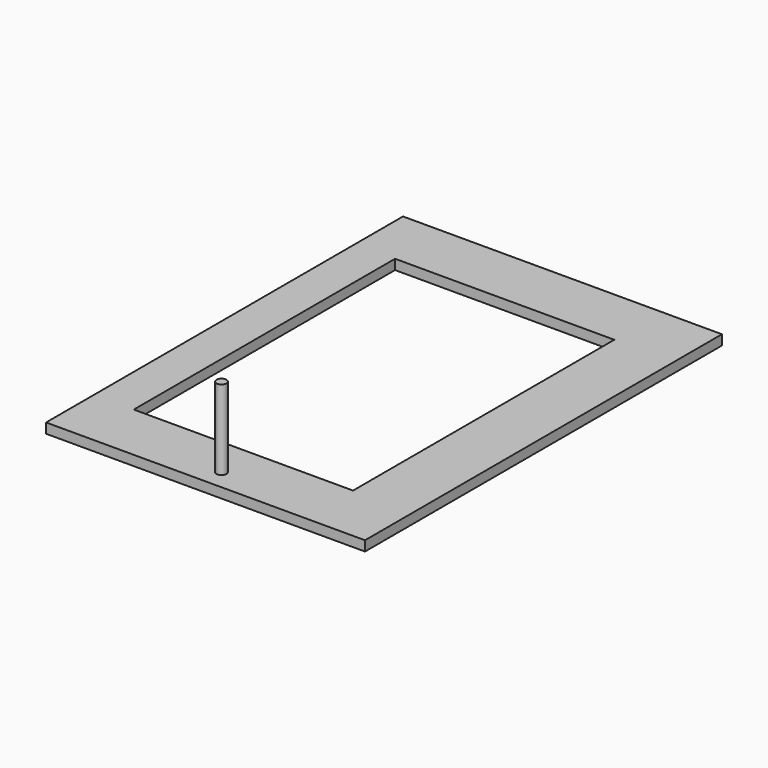
from build123d import *

# Parameters (mm, degrees)
F0_W     = 203.2
F0_H     = 25.4
F0_H_2   = 233.4768
F0_W_2   = 12.7
F0_H_3   = 182.6768
F0_H_4   = 12.7
F1_DEPTH = 6.35
F2_R     = 3.175
F3_DEPTH = 50.8


with BuildPart() as f1:
    # F0 (on Top) → F1 (new body)
    with BuildSketch(Plane.XY):
        with Locations((0, 129.4384)):
            Rectangle(F0_W, F0_H)
        with Locations((0, -129.4384)):
            Rectangle(F0_W, F0_H)
        Rectangle(F0_W, F0_H_2)
        Polygon((76.2, 91.3384), (76.2, -91.3384), (76.2, -104.0384), (63.5, -104.0384), (-63.5, -104.0384), (-76.2, -104.0384), (-76.2, -91.3384), (-76.2, 91.3384), (-76.2, 104.0384), (-63.5, 104.0384), (63.5, 104.0384), (76.2, 104.0384), align=None, mode=Mode.SUBTRACT)
        with Locations((69.85, 0)):
            Rectangle(F0_W_2, F0_H_3)
        with Locations((69.85, -97.6884)):
            Rectangle(F0_W_2, F0_H_4)
        with Locations((69.85, 97.6884)):
            Rectangle(F0_W_2, F0_H_4)
    extrude(amount=F1_DEPTH)

    # F2 (on face) → F3 (join)
    with BuildSketch(Plane.XY.offset(6.35)):
        with Locations((0, -129.4384)):
            Circle(F2_R)
    extrude(amount=F3_DEPTH)


solid = f1.part
